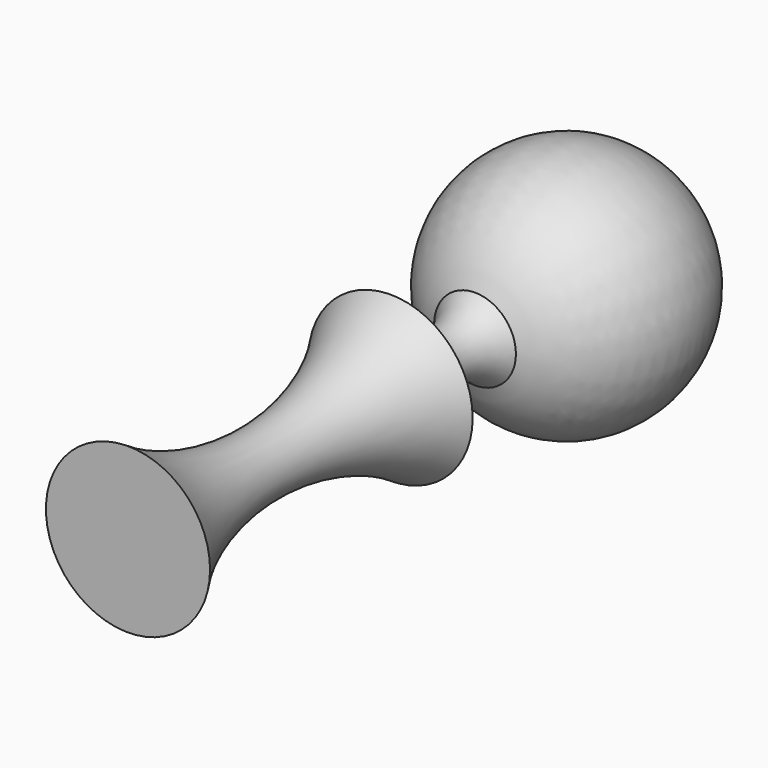
from build123d import *


with BuildPart() as f1:
    # F0 (on Top) → F1 (revolve)
    with BuildSketch(Plane.XY):
        with BuildLine():
            ThreePointArc((5.791704, 19.145532), (16.958665, 38.292274), (0, 52.56471))
            Line((0, 52.56471), (0, 18.141802))
            ThreePointArc((0, 18.141802), (2.939018, 18.394591), (5.791704, 19.145532))
        make_face()
        with BuildLine():
            ThreePointArc((5.791704, 19.145532), (2.939018, 18.394591), (0, 18.141802))
            Line((0, 18.141802), (0, 0))
            Line((0, 0), (0, -42.330872))
            Line((0, -42.330872), (11.629358, -42.330872))
            ThreePointArc((11.629358, -42.330872), (4.418498, -19.072151), (11.629358, 4.18657))
            ThreePointArc((11.629358, 4.18657), (4.045455, 9.84553), (5.791704, 19.145532))
        make_face()
    revolve(axis=Axis((0, 5.116919, 0), (0, -1, 0)))


solid = f1.part
